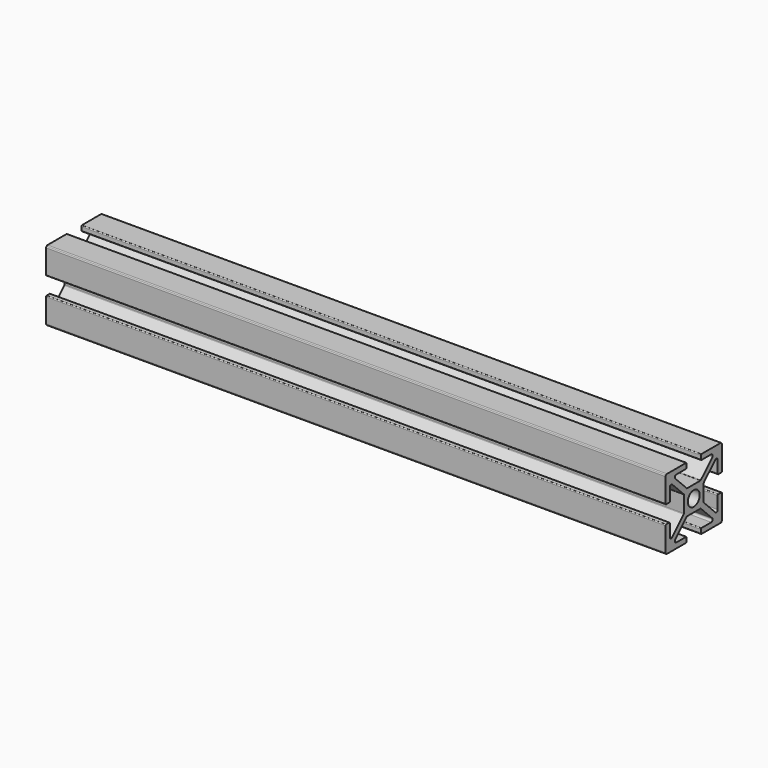
from build123d import *

# Parameters (mm, degrees)
F0_R     = 2.1
F1_DEPTH = 176
F3_DEPTH = 3
F4_R     = 1.8
F5_DEPTH = 3


with BuildPart() as f1:
    # F0 (on Right) → F1 (new body)
    with BuildSketch(Plane.YZ):
        with BuildLine():
            ThreePointArc((-3.0128, 9.379494), (-3.086023, 9.556271), (-3.2628, 9.629494))
            Line((-3.2628, 9.629494), (-10.0128, 9.629494))
            ThreePointArc((-10.0128, 9.629494), (-10.204141, 9.591434), (-10.366353, 9.483048))
            ThreePointArc((-10.366353, 9.483048), (-10.474739, 9.320836), (-10.5128, 9.129494))
            Line((-10.5128, 9.129494), (-10.5128, 2.379494))
            ThreePointArc((-10.5128, 2.379494), (-10.439576, 2.202718), (-10.2628, 2.129494))
            Line((-10.2628, 2.129494), (-9.259825, 2.129494))
            ThreePointArc((-9.259825, 2.129494), (-9.083049, 2.202718), (-9.009825, 2.379494))
            Line((-9.009825, 2.379494), (-9.009825, 5.807272))
            ThreePointArc((-9.009825, 5.807272), (-8.729049, 6.312544), (-8.159246, 6.215281))
            Line((-8.159246, 6.215281), (-4.086023, 2.142057))
            ThreePointArc((-4.086023, 2.142057), (-4.03183, 2.060952), (-4.0128, 1.965281))
            Line((-4.0128, 1.965281), (-4.0128, -2.706292))
            ThreePointArc((-4.0128, -2.706292), (-4.03183, -2.801963), (-4.086023, -2.883069))
            Line((-4.086023, -2.883069), (-8.159246, -6.956292))
            ThreePointArc((-8.159246, -6.956292), (-8.704141, -7.064679), (-9.0128, -6.602739))
            Line((-9.0128, -6.602739), (-9.0128, -3.120506))
            ThreePointArc((-9.0128, -3.120506), (-9.086023, -2.943729), (-9.2628, -2.870506))
            Line((-9.2628, -2.870506), (-10.2628, -2.870506))
            ThreePointArc((-10.2628, -2.870506), (-10.439576, -2.943729), (-10.5128, -3.120506))
            Line((-10.5128, -3.120506), (-10.5128, -9.870506))
            ThreePointArc((-10.5128, -9.870506), (-10.474739, -10.061847), (-10.366353, -10.224059))
            ThreePointArc((-10.366353, -10.224059), (-10.213025, -10.328665), (-10.032104, -10.370133))
            Line((-10.032104, -10.370133), (-3.249152, -10.370133))
            ThreePointArc((-3.249152, -10.370133), (-3.081262, -10.29239), (-3.0128, -10.120506))
            Line((-3.0128, -10.120506), (-3.0128, -9.120506))
            ThreePointArc((-3.0128, -9.120506), (-3.086023, -8.943729), (-3.2628, -8.870506))
            Line((-3.2628, -8.870506), (-6.745033, -8.870506))
            ThreePointArc((-6.745033, -8.870506), (-7.206973, -8.561847), (-7.098586, -8.016952))
            Line((-7.098586, -8.016952), (-3.025363, -3.943729))
            ThreePointArc((-3.025363, -3.943729), (-2.944257, -3.889536), (-2.848586, -3.870506))
            Line((-2.848586, -3.870506), (1.822987, -3.870506))
            ThreePointArc((1.822987, -3.870506), (1.918658, -3.889536), (1.999763, -3.943729))
            Line((1.999763, -3.943729), (6.072987, -8.016952))
            ThreePointArc((6.072987, -8.016952), (6.181373, -8.561847), (5.719433, -8.870506))
            Line((5.719433, -8.870506), (2.249763, -8.870506))
            ThreePointArc((2.249763, -8.870506), (2.072987, -8.943729), (1.999763, -9.120506))
            Line((1.999763, -9.120506), (1.999763, -10.120506))
            ThreePointArc((1.999763, -10.120506), (2.068226, -10.29239), (2.236116, -10.370133))
            Line((2.236116, -10.370133), (9.006504, -10.370133))
            ThreePointArc((9.006504, -10.370133), (9.187425, -10.328665), (9.340754, -10.224059))
            ThreePointArc((9.340754, -10.224059), (9.437101, -10.088655), (9.483749, -9.929152))
            Line((9.483749, -9.929152), (9.483749, -3.079108))
            ThreePointArc((9.483749, -3.079108), (9.398679, -2.929653), (9.2372, -2.870506))
            Line((9.2372, -2.870506), (8.2372, -2.870506))
            ThreePointArc((8.2372, -2.870506), (8.060424, -2.943729), (7.9872, -3.120506))
            Line((7.9872, -3.120506), (7.9872, -6.602739))
            ThreePointArc((7.9872, -6.602739), (7.678542, -7.064679), (7.133647, -6.956292))
            Line((7.133647, -6.956292), (3.060424, -2.883069))
            ThreePointArc((3.060424, -2.883069), (3.00623, -2.801963), (2.9872, -2.706292))
            Line((2.9872, -2.706292), (2.9872, 1.965281))
            ThreePointArc((2.9872, 1.965281), (3.00623, 2.060952), (3.060424, 2.142057))
            Line((3.060424, 2.142057), (7.133647, 6.215281))
            ThreePointArc((7.133647, 6.215281), (7.678542, 6.323667), (7.9872, 5.861727))
            Line((7.9872, 5.861727), (7.9872, 2.379494))
            ThreePointArc((7.9872, 2.379494), (8.060424, 2.202718), (8.2372, 2.129494))
            Line((8.2372, 2.129494), (9.2372, 2.129494))
            ThreePointArc((9.2372, 2.129494), (9.398679, 2.188642), (9.483749, 2.338097))
            Line((9.483749, 2.338097), (9.483749, 9.188141))
            ThreePointArc((9.483749, 9.188141), (9.437101, 9.347644), (9.340754, 9.483048))
            ThreePointArc((9.340754, 9.483048), (9.178542, 9.591434), (8.9872, 9.629494))
            Line((8.9872, 9.629494), (2.2372, 9.629494))
            ThreePointArc((2.2372, 9.629494), (2.060424, 9.556271), (1.9872, 9.379494))
            Line((1.9872, 9.379494), (1.9872, 8.379494))
            ThreePointArc((1.9872, 8.379494), (1.990361, 8.339866), (1.999763, 8.30124))
            ThreePointArc((1.999763, 8.30124), (2.09068, 8.176931), (2.2372, 8.129494))
            Line((2.2372, 8.129494), (5.719433, 8.129494))
            ThreePointArc((5.719433, 8.129494), (6.181373, 7.820836), (6.072987, 7.275941))
            Line((6.072987, 7.275941), (1.999763, 3.202718))
            ThreePointArc((1.999763, 3.202718), (1.918658, 3.148524), (1.822987, 3.129494))
            Line((1.822987, 3.129494), (-2.848586, 3.129494))
            ThreePointArc((-2.848586, 3.129494), (-2.944257, 3.148524), (-3.025363, 3.202718))
            Line((-3.025363, 3.202718), (-7.098586, 7.275941))
            ThreePointArc((-7.098586, 7.275941), (-7.206973, 7.820836), (-6.745033, 8.129494))
            Line((-6.745033, 8.129494), (-3.2628, 8.129494))
            ThreePointArc((-3.2628, 8.129494), (-3.086023, 8.202718), (-3.0128, 8.379494))
            Line((-3.0128, 8.379494), (-3.0128, 8.879494))
            Line((-3.0128, 8.879494), (-3.0128, 9.379494))
        make_face()
        with Locations((-0.5128, -0.370506)):
            Circle(F0_R, mode=Mode.SUBTRACT)
    extrude(amount=F1_DEPTH)

    # F2 (on face) → F3 (cut)
    with BuildSketch(Plane.XY.offset(3.129494)):
        with BuildLine():
            ThreePointArc((36.8, -0.5128), (35, 1.2872), (33.2, -0.5128))
            Line((33.2, -0.5128), (36.8, -0.5128))
        make_face()
        with BuildLine():
            ThreePointArc((146.8, -0.5128), (145, 1.2872), (143.2, -0.5128))
            ThreePointArc((143.2, -0.5128), (145, -2.3128), (146.8, -0.5128))
        make_face()
        with BuildLine():
            ThreePointArc((111.8, -0.5128), (110, 1.2872), (108.2, -0.5128))
            Line((108.2, -0.5128), (111.8, -0.5128))
        make_face()
        with BuildLine():
            Line((111.8, -0.5128), (108.2, -0.5128))
            ThreePointArc((108.2, -0.5128), (110, -2.3128), (111.8, -0.5128))
        make_face()
        with BuildLine():
            ThreePointArc((71.8, -0.5128), (70, 1.2872), (68.2, -0.5128))
            Line((68.2, -0.5128), (71.8, -0.5128))
        make_face()
        with BuildLine():
            Line((71.8, -0.5128), (68.2, -0.5128))
            ThreePointArc((68.2, -0.5128), (70, -2.3128), (71.8, -0.5128))
        make_face()
        with BuildLine():
            Line((36.8, -0.5128), (33.2, -0.5128))
            ThreePointArc((33.2, -0.5128), (35, -2.3128), (36.8, -0.5128))
        make_face()
    extrude(amount=-F3_DEPTH, mode=Mode.SUBTRACT)

    # F4 (on face) → F5 (cut)
    with BuildSketch(Plane(origin=(0, 2.9872, 0), x_dir=(-1, 0, 0), z_dir=(0, 1, 0))):
        with Locations((-166, -0.370506)):
            Circle(F4_R)
        with Locations((-10, -0.370506)):
            Circle(F4_R)
    extrude(amount=-F5_DEPTH, mode=Mode.SUBTRACT)


solid = f1.part
